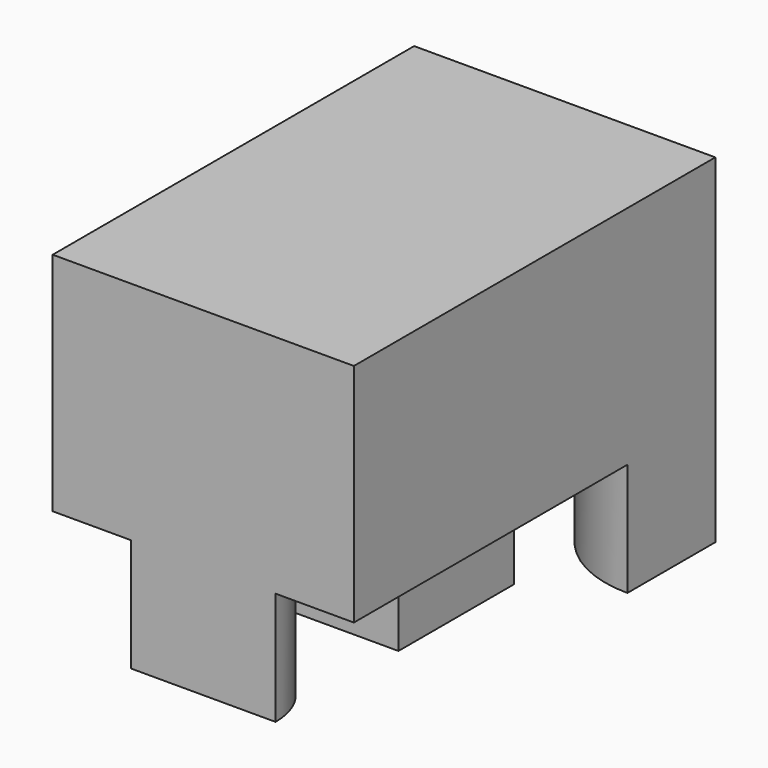
from build123d import *

# Parameters (mm, degrees)
F0_R     = 6.858
F1_DEPTH = 38.1
F2_DEPTH = 19.05
F3_DEPTH = 12.7


with BuildPart() as f1:
    # F0 (on Top) → F1 (new body)
    with BuildSketch(Plane.XY):
        with BuildLine():
            ThreePointArc((25.4, 17.991581587), (12.2888260632, 23.4224076502), (6.858, 36.533581587))
            Line((6.858, 36.533581587), (-6.858, 36.533581587))
            ThreePointArc((-6.858, 36.533581587), (-12.2888260632, 23.4224076502), (-25.4, 17.991581587))
            Line((-25.4, 17.991581587), (-25.4, -39.666418413))
            Line((-25.4, -39.666418413), (-12.192, -39.666418413))
            ThreePointArc((-12.192, -39.666418413), (0, -27.474418413), (12.192, -39.666418413))
            Line((12.192, -39.666418413), (25.4, -39.666418413))
            Line((25.4, -39.666418413), (25.4, 17.991581587))
        make_face()
        Polygon((-12.192, 10.625581587), (12.192, 10.625581587), (12.192, 0), (12.192, -13.758418413), (-12.192, -13.758418413), (-12.192, 0), align=None, mode=Mode.SUBTRACT)
        Polygon((12.192, 0), (12.192, 10.625581587), (-12.192, 10.625581587), (-12.192, 0), (-12.192, -13.758418413), (12.192, -13.758418413), align=None)
        with Locations((0, -1.566418413)):
            Circle(F0_R, mode=Mode.SUBTRACT)
        with BuildLine():
            Line((25.4, 17.991581587), (25.4, 36.533581587))
            Line((25.4, 36.533581587), (6.858, 36.533581587))
            ThreePointArc((6.858, 36.533581587), (12.2888260632, 23.4224076502), (25.4, 17.991581587))
        make_face()
        with BuildLine():
            ThreePointArc((-25.4, 17.991581587), (-12.2888260632, 23.4224076502), (-6.858, 36.533581587))
            Line((-6.858, 36.533581587), (-25.4, 36.533581587))
            Line((-25.4, 36.533581587), (-25.4, 17.991581587))
        make_face()
        with BuildLine():
            Line((-12.192, -39.666418413), (12.192, -39.666418413))
            ThreePointArc((12.192, -39.666418413), (0, -27.474418413), (-12.192, -39.666418413))
        make_face()
        with Locations((0, -1.566418413)):
            Circle(F0_R)
    extrude(amount=F1_DEPTH)

    # F0 (on Top) → F2 (join)
    with BuildSketch(Plane.XY):
        with BuildLine():
            Line((-12.192, -39.666418413), (12.192, -39.666418413))
            ThreePointArc((12.192, -39.666418413), (0, -27.474418413), (-12.192, -39.666418413))
        make_face()
        Polygon((12.192, 0), (12.192, 10.625581587), (-12.192, 10.625581587), (-12.192, 0), (-12.192, -13.758418413), (12.192, -13.758418413), align=None)
        with Locations((0, -1.566418413)):
            Circle(F0_R, mode=Mode.SUBTRACT)
        with BuildLine():
            Line((25.4, 17.991581587), (25.4, 36.533581587))
            Line((25.4, 36.533581587), (6.858, 36.533581587))
            ThreePointArc((6.858, 36.533581587), (12.2888260632, 23.4224076502), (25.4, 17.991581587))
        make_face()
        with BuildLine():
            ThreePointArc((-25.4, 17.991581587), (-12.2888260632, 23.4224076502), (-6.858, 36.533581587))
            Line((-6.858, 36.533581587), (-25.4, 36.533581587))
            Line((-25.4, 36.533581587), (-25.4, 17.991581587))
        make_face()
    extrude(amount=-F2_DEPTH)

    # F0 (on Top) → F3 (join)
    with BuildSketch(Plane.XY):
        with Locations((0, -1.566418413)):
            Circle(F0_R)
    extrude(amount=-F3_DEPTH)


solid = f1.part
